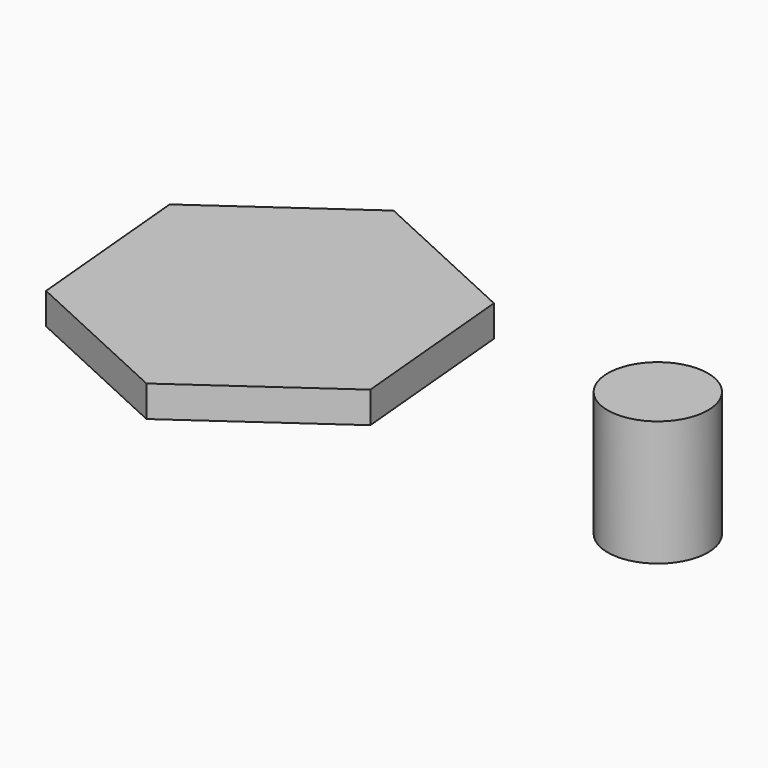
from build123d import *

# Parameters (mm, degrees)
F0_R     = 40.054359
F1_DEPTH = 100
F4_DEPTH = 25


with BuildPart() as f1:
    # F0 (on Top) → F1 (new body)
    with BuildSketch(Plane.XY):
        Circle(F0_R)
    extrude(amount=F1_DEPTH)


with BuildPart() as f4:
    # F3 (on face) → F4 (new body)
    with BuildSketch(Plane.XY.offset(100)):
        Polygon((-365.919222, -30.067974), (-353.147447, -169.405207), (-226.091976, -228.013142), (-111.80828, -147.283843), (-124.580055, -7.94661), (-251.635527, 50.661324), align=None)
    extrude(amount=F4_DEPTH)


solid = Compound([f1.part, f4.part])
